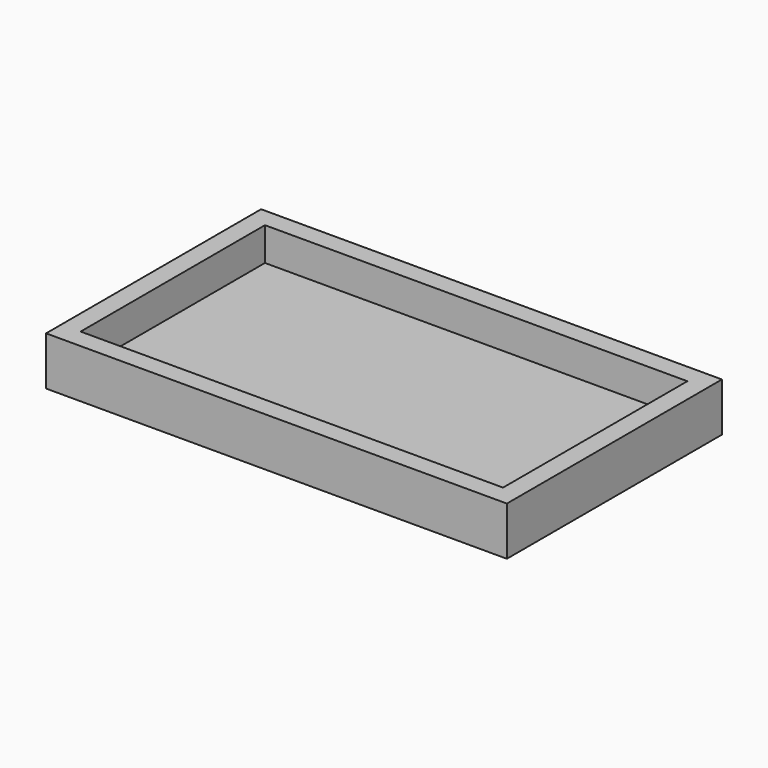
from build123d import *

# Parameters (mm, degrees)
F0_W     = 152.4
F0_H     = 88.9
F1_DEPTH = 5.08
F2_W     = 139.7
F2_H     = 76.2
F3_DEPTH = 11


with BuildPart() as f1:
    # F0 (on Top) → F1 (new body)
    with BuildSketch(Plane.XY):
        with Locations((0, 44.45)):
            Rectangle(F0_W, F0_H)
    extrude(amount=F1_DEPTH)

    # F2 (on face) → F3 (join)
    with BuildSketch(Plane.XY.offset(5.08)):
        Polygon((-76.2, 0), (0, 0), (76.2, 0), (76.2, 44.45), (76.2, 88.9), (0, 88.9), (-76.2, 88.9), (-76.2, 44.45), align=None)
        with Locations((0, 44.45)):
            Rectangle(F2_W, F2_H, mode=Mode.SUBTRACT)
    extrude(amount=F3_DEPTH)


solid = f1.part
